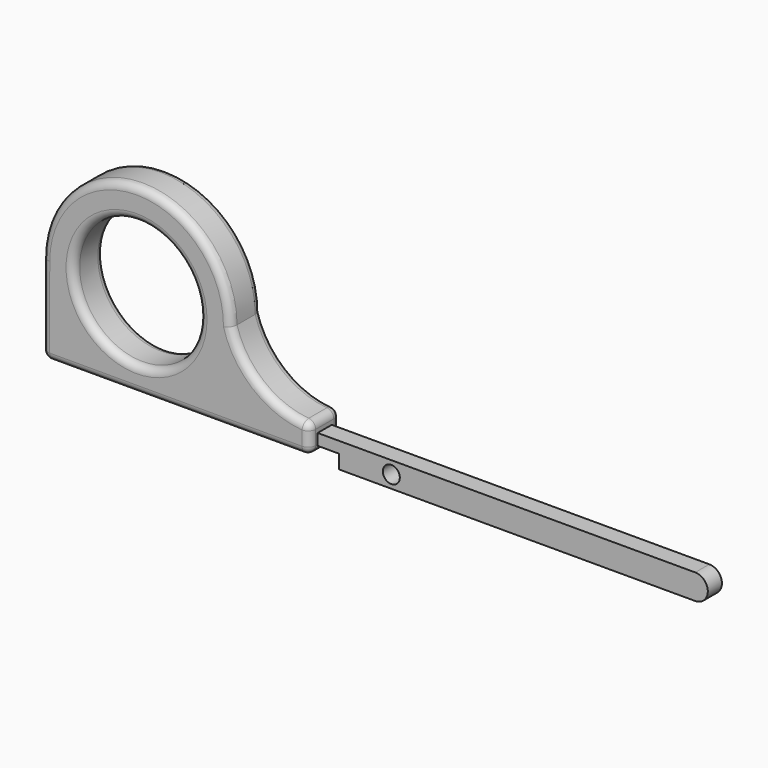
from build123d import *

# Parameters (mm, degrees)
F0_R     = 1.7145
F1_DEPTH = 1.778
F0_R_2   = 12.7
F2_DEPTH = 3.81
F3_R     = 1.524


with BuildPart() as f1:
    # F0 (on Front) → F1 (new body, symmetric)
    with BuildSketch(Plane.XZ):
        with BuildLine():
            Line((34.925, -14.2239901728), (34.925, -16.5099901728))
            Line((34.925, -16.5099901728), (39.243, -16.5099901728))
            Line((39.243, -16.5099901728), (39.243, -19.3039901728))
            Line((39.243, -19.3039901728), (111.1161178446, -19.3039901728))
            ThreePointArc((111.1161178446, -19.3039901728), (113.6561178446, -16.7639901728), (111.1161178446, -14.2239901728))
            Line((111.1161178446, -14.2239901728), (34.925, -14.2239901728))
        make_face()
        with Locations((49.784, -16.7639901728)):
            Circle(F0_R, mode=Mode.SUBTRACT)
    extrude(amount=F1_DEPTH, both=True)


with BuildPart() as f2:
    # F0 (on Front) → F2 (new body, symmetric)
    with BuildSketch(Plane.XZ):
        with BuildLine():
            Line((-19.036992955, 0.0173138134), (-19.05, -17.78))
            Line((-19.05, -17.78), (34.925, -17.78))
            Line((34.925, -17.78), (34.925, -16.5099901728))
            Line((34.925, -16.5099901728), (34.925, -14.2239901728))
            Line((34.925, -14.2239901728), (34.925, -11.9125901728))
            ThreePointArc((34.925, -11.9125901728), (25.0012226241, -8.5972384286), (19.063007045, 0.0173138134))
            ThreePointArc((19.063007045, 0.0173138134), (0.013007045, 19.0673138134), (-19.036992955, 0.0173138134))
        make_face()
        Circle(F0_R_2, mode=Mode.SUBTRACT)
    extrude(amount=F2_DEPTH, both=True)

    # F3
    f3_edges = [f2.edges().sort_by_distance(p)[0] for p in [
        (-19.043496, -3.81, -8.881343),
        (7.9375, -3.81, -17.78),
        (34.925, -3.81, -14.846295),
        (25.001223, -3.81, -8.597238),
        (0.013007, -3.81, 19.067314),
        (-12.7, -3.81, 0),
        (-19.043496, 3.81, -8.881343),
        (7.9375, 3.81, -17.78),
        (34.925, 3.81, -14.846295),
        (25.001223, 3.81, -8.597238),
        (0.013007, 3.81, 19.067314),
        (-12.7, 3.81, 0),
        (34.925, 0, -17.78),
        (34.925, 0, -11.91259),
        (-19.05, 0, -17.78),
    ]]
    fillet(f3_edges, radius=F3_R)


solid = Compound([f1.part, f2.part])
